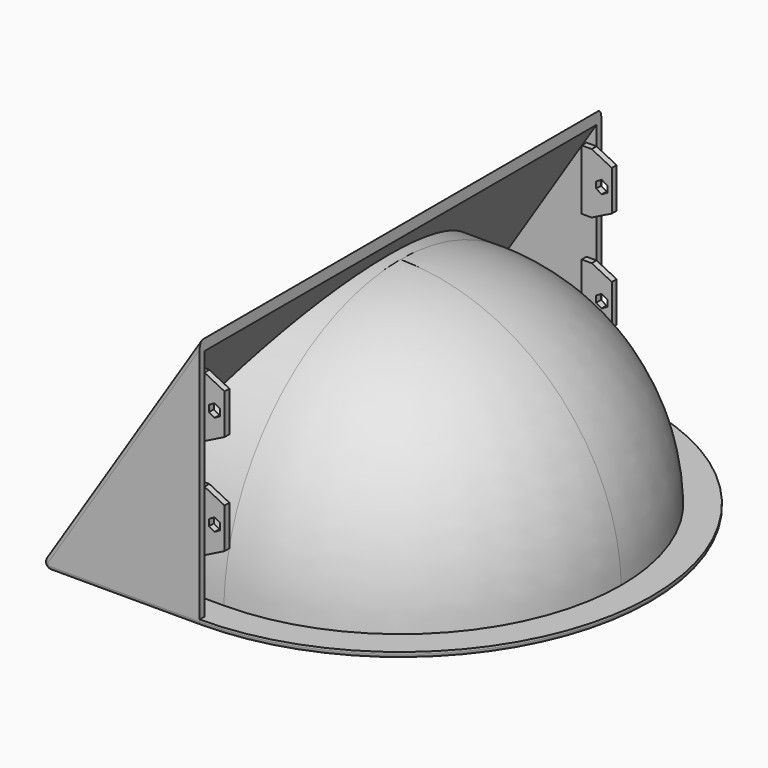
from build123d import *

# Parameters (mm, degrees)
REVOLUTION_ANGLE = -180
PAD_DEPTH        = 3
PAD001_DEPTH     = 100
SKETCH011_W      = 77
SKETCH011_H      = 3
PAD003_DEPTH     = 125
SKETCH006_W      = 250
SKETCH006_H      = 220
PAD002_DEPTH     = 3
POCKET003_DEPTH  = 150
POCKET_DEPTH     = 250
SKETCH014_W      = 20
SKETCH014_H      = 280
POCKET004_DEPTH  = 10
FILLET_R         = 5
FILLET001_R      = 3
PAD004_DEPTH     = 3
POCKET005_DEPTH  = 3
FILLET003_R      = 2


with BuildPart() as part:
    # Sketch → Revolution (revolve, symmetric)
    with BuildSketch(Plane.XZ) as revolution_sk:
        with BuildLine():
            ThreePointArc((110, 0), (77.781746, 77.781746), (0, 110))
            Line((0, 110), (0, 107))
            ThreePointArc((106.999766, 0.223706), (75.581292, 75.739476), (0, 107))
            Line((106.999766, 0.223706), (110, 0))
        make_face()
    revolve(axis=Axis((0, 0, 0), (0, 0, 1)), revolution_arc=REVOLUTION_ANGLE / 2)
    revolve(revolution_sk.sketch, axis=Axis((0, 0, 0), (0, 0, -1)), revolution_arc=REVOLUTION_ANGLE / 2)

    # Sketch002 → Pad (new body)
    with BuildSketch(Plane.XY):
        with BuildLine():
            Line((-130, -125), (0, -125))
            ThreePointArc((0, -125), (125, 0), (0, 125))
            Line((0, 125), (-130, 125))
            Line((-130, 125), (-130, -125))
        make_face()
    extrude(amount=PAD_DEPTH)

    # Sketch004 → Pad001 (join)
    with BuildSketch(Plane.YZ):
        with BuildLine():
            ThreePointArc((107, 0), (0, 107), (-107, 0))
            Line((-107, 0), (-110, 0))
            ThreePointArc((110, 0), (0, 110), (-110, 0))
            Line((107, 0), (110, 0))
        make_face()
    extrude(amount=-PAD001_DEPTH)

    # Sketch011 → Pad003 (join)
    with BuildSketch(Plane.XY):
        with Locations((-38.5, 123.5)):
            Rectangle(SKETCH011_W, SKETCH011_H)
        with Locations((-38.5, -123.5)):
            Rectangle(SKETCH011_W, SKETCH011_H)
    extrude(amount=PAD003_DEPTH)

    # Sketch006 (on DatumPlane) → Pad002 (join)
    with BuildSketch(Plane(origin=(0, 0, 125), x_dir=(0, 1, 0), z_dir=(0.842271, 0, -0.539054))):
        with Locations((0, -80)):
            Rectangle(SKETCH006_W, SKETCH006_H)
    extrude(amount=PAD002_DEPTH)

    # Sketch012 → Pocket003 (cut)
    with BuildSketch(Plane.YZ):
        with BuildLine():
            ThreePointArc((107, 0), (0, 107), (-107, 0))
            Line((107, 0), (-107, 0))
        make_face()
    extrude(amount=-POCKET003_DEPTH, mode=Mode.SUBTRACT)

    # Sketch009 → Groove (revolve, cut)
    with BuildSketch(Plane.XY):
        with BuildLine():
            Line((107, 0), (-200, 0))
            Line((-200, 0), (-200, -107))
            Line((-200, -107), (0, -107))
            ThreePointArc((0, -107), (75.660426, -75.660426), (107, 0))
        make_face()
    revolve(axis=Axis((0, 0, 0), (1, 0, 0)), mode=Mode.SUBTRACT)

    # Sketch013 → Pocket (cut, symmetric)
    with BuildSketch(Plane.XZ):
        Polygon((-70, -67.251988), (-198.394745, -67.251988), (-198.394745, 156.770523), (56.7411, 156.770523), (56.7411, 125), (0, 125), (-80, 0), (-70, 0), align=None)
    extrude(amount=POCKET_DEPTH, both=True, mode=Mode.SUBTRACT)

    # Sketch014 → Pocket004 (cut)
    with BuildSketch(Plane.XY.offset(125)):
        with Locations((10, 0)):
            Rectangle(SKETCH014_W, SKETCH014_H)
    extrude(amount=-POCKET004_DEPTH, mode=Mode.SUBTRACT)

    # Fillet
    fillet_edges = [part.edges().sort_by_distance(p)[0] for p in [
        (-11.52, 3e-06, 107),
    ]]
    fillet(fillet_edges, radius=FILLET_R)

    # Fillet001
    fillet001_edges = [part.edges().sort_by_distance(p)[0] for p in [
        (-80, 118.483252, 0),
        (-80, -118.483252, 0),
    ]]
    fillet(fillet001_edges, radius=FILLET001_R)

    # Sketch015 → Pad004 (join)
    with BuildSketch(Plane.XZ.offset(122)):
        Polygon((0, 110), (10, 105), (10, 85), (0, 80), (-5, 80), (-5, 110), align=None)
        Polygon((0, 60), (10, 55), (10, 35), (0, 30), (-5, 30), (-5, 60), align=None)
    pad004 = extrude(amount=-PAD004_DEPTH)

    # Sketch016 → Pocket005 (cut)
    with BuildSketch(Plane.XZ.offset(122)):
        Polygon((7.771281, 93.4), (7.771281, 96.6), (5, 98.2), (2.228719, 96.6), (2.228719, 93.4), (5, 91.8), align=None)
        Polygon((5, 41.8), (7.771281, 43.4), (7.771281, 46.6), (5, 48.2), (2.228719, 46.6), (2.228719, 43.4), align=None)
    pocket005 = extrude(amount=-POCKET005_DEPTH, mode=Mode.SUBTRACT)

    # Mirrored: Pad004 across XZ
    add(pad004.mirror(Plane.XZ))

    # Mirrored001: Pocket005 across XZ
    add(pocket005.mirror(Plane.XZ), mode=Mode.SUBTRACT)

    # Fillet003
    fillet003_edges = [part.edges().sort_by_distance(p)[0] for p in [
        (-38.522508, -125, 64.808581),
        (-38.522508, 125, 64.808581),
    ]]
    fillet(fillet003_edges, radius=FILLET003_R)


solid = part.part
